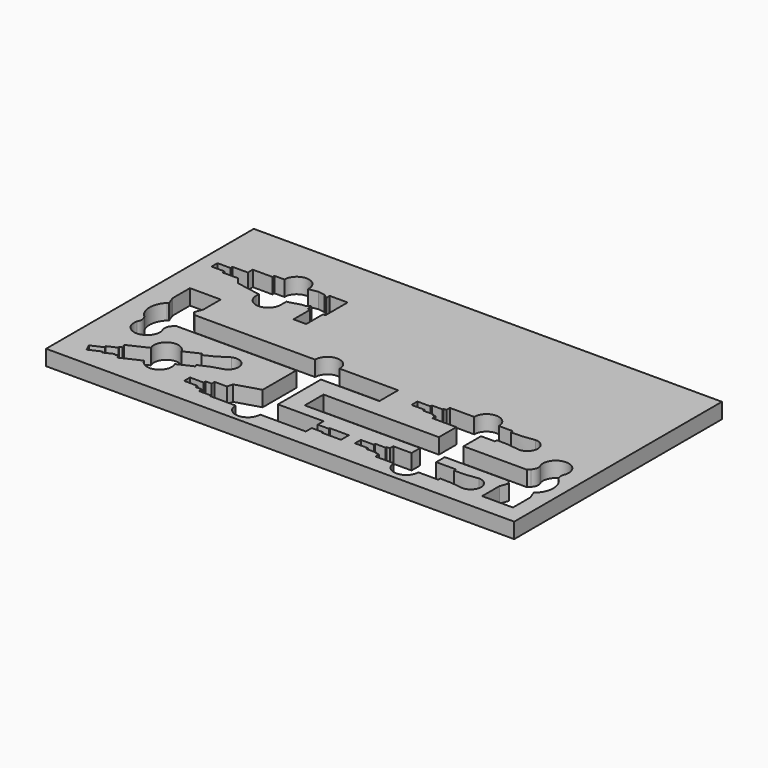
from build123d import *

# Parameters (mm, degrees)
F0_W     = 759
F0_H     = 421
F1_DEPTH = 25
F3_DEPTH = 25


with BuildPart() as f1:
    # F0 (on Top) → F1 (new body)
    with BuildSketch(Plane.XY):
        with Locations((379.5, 210.5)):
            Rectangle(F0_W, F0_H)
        with BuildLine():
            Line((41.574106, 29.987679), (39.038397, 35.425526))
            Line((39.038397, 35.425526), (36.502687, 40.863373))
            Line((36.502687, 40.863373), (55.535151, 49.738356))
            Line((55.535151, 49.738356), (54.267296, 52.457279))
            Line((54.267296, 52.457279), (69.674528, 59.64179))
            Line((69.674528, 59.64179), (68.829292, 61.454405))
            Line((68.829292, 61.454405), (73.360831, 63.567497))
            Line((73.360831, 63.567497), (70.402503, 69.911651))
            Line((70.402503, 69.911651), (162.845897, 113.018714))
            Line((162.845897, 113.018714), (164.53637, 109.393483))
            add(Edge.make_bspline(
                [(164.53637, 109.393483), (186.02897, 118.759774), (189.360402, 123.697673), (197.708211, 128.1719)],
                knots=[0, 0, 0, 0, 38.118237, 38.118237, 38.118237, 38.118237], degree=3))
            ThreePointArc((197.708211, 128.1719), (220.299954, 119.949178), (212.077232, 97.357435))
            add(Edge.make_bspline(
                [(176.369682, 84.016865), (197.359854, 94.460615), (203.283907, 93.83862), (212.077232, 97.357435)],
                knots=[0, 0, 0, 0, 38.118237, 38.118237, 38.118237, 38.118237], degree=3))
            Line((176.369682, 84.016865), (178.060155, 80.391634))
            Line((178.060155, 80.391634), (85.61676, 37.284571))
            Line((85.61676, 37.284571), (82.658433, 43.628725))
            Line((82.658433, 43.628725), (78.126894, 41.515634))
            Line((78.126894, 41.515634), (77.281657, 43.32825))
            Line((77.281657, 43.32825), (61.874425, 36.143739))
            Line((61.874425, 36.143739), (60.60657, 38.862663))
            Line((60.60657, 38.862663), (41.574106, 29.987679))
        make_face(mode=Mode.SUBTRACT)
        Polygon((191.509393, 40.288926), (191.509393, 46.288926), (191.509393, 52.288926), (213.509393, 52.288926), (213.509393, 56.288926), (223.509393, 56.288926), (223.509393, 62.288926), (243.509393, 62.288926), (245.925241, 71.600876), (300.509393, 88.288926), (324.509393, 88.288926), (324.509393, 64.288926), (398.509393, 64.288926), (398.509393, 52.288926), (416.509393, 52.288926), (416.509393, 54.288926), (447.509393, 54.288926), (447.509393, 46.288926), (447.509393, 38.288926), (416.509393, 38.288926), (416.509393, 40.288926), (398.509393, 40.288926), (398.509393, 28.288926), (243.509393, 28.288926), (243.509393, 30.288926), (223.509393, 30.288926), (223.509393, 36.288926), (213.509393, 36.288926), (213.509393, 40.288926), align=None, mode=Mode.SUBTRACT)
        with BuildLine():
            Line((89.169813, 189.501551), (419.169813, 189.501551))
            Line((419.169813, 189.501551), (419.169813, 151.501551))
            Line((419.169813, 151.501551), (89.169813, 151.501551))
            ThreePointArc((89.169813, 151.501551), (87.502912, 149.428753), (85.669622, 147.501551))
            ThreePointArc((85.669622, 147.501551), (81.878586, 139.313731), (83.817105, 130.501551))
            ThreePointArc((83.817105, 130.501551), (63.421027, 104.501551), (43.024949, 130.501551))
            ThreePointArc((43.024949, 130.501551), (44.963468, 139.313731), (41.172432, 147.501551))
            ThreePointArc((41.172432, 147.501551), (31.421027, 170.501551), (41.172432, 193.501551))
            ThreePointArc((41.172432, 193.501551), (42.17639, 194.43198), (43.219221, 195.318622))
            Line((43.219221, 195.318622), (38.421027, 208.501551))
            Line((38.421027, 208.501551), (38.421027, 243.501551))
            Line((38.421027, 243.501551), (88.421027, 243.501551))
            Line((88.421027, 243.501551), (88.421027, 208.501551))
            Line((88.421027, 208.501551), (83.622833, 195.318622))
            ThreePointArc((83.622833, 195.318622), (86.579693, 192.584943), (89.169813, 189.501551))
        make_face(mode=Mode.SUBTRACT)
        with BuildLine():
            Line((467.266707, 41.794581), (467.266707, 47.794581))
            Line((467.266707, 47.794581), (467.266707, 53.794581))
            Line((467.266707, 53.794581), (488.266707, 53.794581))
            Line((488.266707, 53.794581), (488.266707, 56.794581))
            Line((488.266707, 56.794581), (505.266707, 56.794581))
            Line((505.266707, 56.794581), (505.266707, 58.794581))
            Line((505.266707, 58.794581), (510.266707, 58.794581))
            Line((510.266707, 58.794581), (510.266707, 65.794581))
            Line((510.266707, 65.794581), (612.266707, 65.794581))
            Line((612.266707, 65.794581), (612.266707, 61.794581))
            add(Edge.make_bspline(
                [(612.266707, 61.794581), (635.703983, 61.200159), (640.810132, 64.267491), (650.266707, 64.794581)],
                knots=[0, 0, 0, 0, 38.118237, 38.118237, 38.118237, 38.118237], degree=3))
            ThreePointArc((650.266707, 64.794581), (667.266707, 47.794581), (650.266707, 30.794581))
            add(Edge.make_bspline(
                [(612.266707, 33.794581), (635.703983, 34.389004), (640.810132, 31.321672), (650.266707, 30.794581)],
                knots=[0, 0, 0, 0, 38.118237, 38.118237, 38.118237, 38.118237], degree=3))
            Line((612.266707, 33.794581), (612.266707, 29.794581))
            Line((612.266707, 29.794581), (510.266707, 29.794581))
            Line((510.266707, 29.794581), (510.266707, 36.794581))
            Line((510.266707, 36.794581), (505.266707, 36.794581))
            Line((505.266707, 36.794581), (505.266707, 38.794581))
            Line((505.266707, 38.794581), (488.266707, 38.794581))
            Line((488.266707, 38.794581), (488.266707, 41.794581))
            Line((488.266707, 41.794581), (467.266707, 41.794581))
        make_face(mode=Mode.SUBTRACT)
        with BuildLine():
            Line((682.767974, 83.318914), (352.767974, 83.318914))
            Line((352.767974, 83.318914), (352.767974, 121.318914))
            Line((352.767974, 121.318914), (682.767974, 121.318914))
            ThreePointArc((682.767974, 121.318914), (684.434876, 123.391712), (686.268165, 125.318914))
            ThreePointArc((686.268165, 125.318914), (690.059202, 133.506735), (688.120682, 142.318914))
            ThreePointArc((688.120682, 142.318914), (708.516761, 168.318914), (728.912839, 142.318914))
            ThreePointArc((728.912839, 142.318914), (726.974319, 133.506735), (730.765356, 125.318914))
            ThreePointArc((730.765356, 125.318914), (740.516761, 102.318914), (730.765356, 79.318914))
            ThreePointArc((730.765356, 79.318914), (729.761397, 78.388485), (728.718567, 77.501843))
            Line((728.718567, 77.501843), (733.516761, 64.318914))
            Line((733.516761, 64.318914), (733.516761, 29.318914))
            Line((733.516761, 29.318914), (683.516761, 29.318914))
            Line((683.516761, 29.318914), (683.516761, 64.318914))
            Line((683.516761, 64.318914), (688.314954, 77.501843))
            ThreePointArc((688.314954, 77.501843), (685.358094, 80.235523), (682.767974, 83.318914))
        make_face(mode=Mode.SUBTRACT)
        with BuildLine():
            Line((457.506399, 168.704841), (457.506399, 174.704841))
            Line((457.506399, 174.704841), (457.506399, 180.704841))
            Line((457.506399, 180.704841), (478.506399, 180.704841))
            Line((478.506399, 180.704841), (478.506399, 183.704841))
            Line((478.506399, 183.704841), (495.506399, 183.704841))
            Line((495.506399, 183.704841), (495.506399, 185.704841))
            Line((495.506399, 185.704841), (500.506399, 185.704841))
            Line((500.506399, 185.704841), (500.506399, 192.704841))
            Line((500.506399, 192.704841), (602.506399, 192.704841))
            Line((602.506399, 192.704841), (602.506399, 188.704841))
            add(Edge.make_bspline(
                [(602.506399, 188.704841), (625.943676, 188.110419), (631.049824, 191.177751), (640.506399, 191.704841)],
                knots=[0, 0, 0, 0, 38.118237, 38.118237, 38.118237, 38.118237], degree=3))
            ThreePointArc((640.506399, 191.704841), (657.506399, 174.704841), (640.506399, 157.704841))
            add(Edge.make_bspline(
                [(602.506399, 160.704841), (625.943676, 161.299264), (631.049824, 158.231932), (640.506399, 157.704841)],
                knots=[0, 0, 0, 0, 38.118237, 38.118237, 38.118237, 38.118237], degree=3))
            Line((602.506399, 160.704841), (602.506399, 156.704841))
            Line((602.506399, 156.704841), (500.506399, 156.704841))
            Line((500.506399, 156.704841), (500.506399, 163.704841))
            Line((500.506399, 163.704841), (495.506399, 163.704841))
            Line((495.506399, 163.704841), (495.506399, 165.704841))
            Line((495.506399, 165.704841), (478.506399, 165.704841))
            Line((478.506399, 165.704841), (478.506399, 168.704841))
            Line((478.506399, 168.704841), (457.506399, 168.704841))
        make_face(mode=Mode.SUBTRACT)
        with BuildLine():
            Line((22.89143, 306.7806), (22.89143, 312.7806))
            Line((22.89143, 312.7806), (22.89143, 318.7806))
            Line((22.89143, 318.7806), (43.89143, 318.7806))
            Line((43.89143, 318.7806), (43.89143, 322.7806))
            Line((43.89143, 322.7806), (68.89143, 322.7806))
            Line((68.89143, 322.7806), (68.89143, 332.7806))
            Line((68.89143, 332.7806), (100.89143, 332.7806))
            Line((100.89143, 332.7806), (100.89143, 336.7806))
            Line((100.89143, 336.7806), (124.89143, 336.7806))
            Line((124.89143, 336.7806), (124.89143, 332.7806))
            Line((124.89143, 332.7806), (146.89143, 332.7806))
            Line((146.89143, 332.7806), (171.715281, 337.534668))
            ThreePointArc((171.715281, 337.534668), (171.891618, 337.552447), (172.068324, 337.538819))
            Line((172.068324, 337.538819), (182.655824, 335.768171))
            ThreePointArc((182.655824, 335.768171), (182.880469, 335.702856), (183.083791, 335.587134))
            Line((183.083791, 335.587134), (188.298515, 331.747534))
            ThreePointArc((188.298515, 331.747534), (189.342587, 331.660354), (189.89143, 332.552799))
            Line((189.89143, 332.552799), (189.89143, 336.568402))
            ThreePointArc((189.89143, 336.568402), (190.184324, 337.275509), (190.89143, 337.568402))
            Line((190.89143, 337.568402), (217.89143, 337.568402))
            ThreePointArc((217.89143, 337.568402), (218.598537, 337.275509), (218.89143, 336.568402))
            Line((218.89143, 336.568402), (218.89143, 293.568402))
            ThreePointArc((218.89143, 293.568402), (218.598537, 292.861295), (217.89143, 292.568402))
            Line((217.89143, 292.568402), (214.89143, 292.568402))
            Line((214.89143, 292.568402), (214.89143, 258.568402))
            Line((214.89143, 258.568402), (204.570513, 258.568402))
            Line((204.570513, 258.568402), (194.249595, 258.568402))
            Line((194.249595, 258.568402), (194.249595, 292.568402))
            Line((194.249595, 292.568402), (191.249595, 292.568402))
            ThreePointArc((191.249595, 292.568402), (190.542488, 292.861295), (190.249595, 293.568402))
            Line((190.249595, 293.568402), (190.249595, 299.625914))
            ThreePointArc((190.249595, 299.625914), (189.794508, 300.464406), (188.843456, 300.539726))
            Line((188.843456, 300.539726), (185.447085, 299.030226))
            Line((185.447085, 299.030226), (182.1873, 296.695699))
            Line((182.1873, 296.695699), (177.306008, 296.695699))
            Line((177.306008, 296.695699), (163.97365, 292.456207))
            ThreePointArc((163.97365, 292.456207), (158.58694, 291.344635), (153.086813, 291.373529))
            ThreePointArc((153.086813, 291.373529), (152.167101, 290.965545), (152.067674, 289.964329))
            Line((152.067674, 289.964329), (156.276329, 280.742977))
            ThreePointArc((156.276329, 280.742977), (156.207791, 279.787035), (155.3666, 279.327774))
            Line((155.3666, 279.327774), (144.689574, 279.327774))
            ThreePointArc((144.689574, 279.327774), (143.914799, 278.960011), (143.709891, 278.127221))
            ThreePointArc((143.709891, 278.127221), (138.003244, 272.668544), (135.557074, 280.177155))
            ThreePointArc((135.557074, 280.177155), (135.728062, 281.160299), (134.963679, 281.801804))
            Line((134.963679, 281.801804), (77.752069, 291.966183))
            ThreePointArc((77.752069, 291.966183), (77.413599, 292.092612), (77.14215, 292.33107))
            Line((77.14215, 292.33107), (69.191711, 302.400294))
            ThreePointArc((69.191711, 302.400294), (68.842933, 302.680515), (68.406868, 302.7806))
            Line((68.406868, 302.7806), (43.89143, 302.7806))
            Line((43.89143, 302.7806), (43.89143, 306.7806))
            Line((43.89143, 306.7806), (22.89143, 306.7806))
        make_face(mode=Mode.SUBTRACT)
    extrude(amount=F1_DEPTH)

    # F2 (on Top) → F3 (cut)
    with BuildSketch(Plane.XY):
        with BuildLine():
            ThreePointArc((579.86758, 192.825273), (559.86758, 212.825273), (539.86758, 192.825273))
            Line((539.86758, 192.825273), (539.86758, 30.116457))
            ThreePointArc((539.86758, 30.116457), (559.86758, 10.116457), (579.86758, 30.116457))
            Line((579.86758, 30.116457), (579.86758, 192.825273))
        make_face()
        with BuildLine():
            ThreePointArc((138.369839, 101.60534), (111.791318, 111.279131), (102.117527, 84.70061))
            Line((102.117527, 84.70061), (117.331785, 52.07353))
            ThreePointArc((117.331785, 52.07353), (143.910306, 42.399739), (153.584096, 68.97826))
            Line((153.584096, 68.97826), (138.369839, 101.60534))
        make_face()
        with BuildLine():
            ThreePointArc((324.509393, 189.501551), (304.509393, 209.501551), (284.509393, 189.501551))
            Line((284.509393, 189.501551), (284.509393, 28.288926))
            ThreePointArc((284.509393, 28.288926), (304.509393, 8.288926), (324.509393, 28.288926))
            Line((324.509393, 28.288926), (324.509393, 189.501551))
        make_face()
        with BuildLine():
            ThreePointArc((156.922232, 336.7806), (136.922232, 356.7806), (116.922232, 336.7806))
            Line((116.922232, 336.7806), (116.922232, 279.327774))
            ThreePointArc((116.922232, 279.327774), (136.922232, 259.327774), (156.922232, 279.327774))
            Line((156.922232, 279.327774), (156.922232, 336.7806))
        make_face()
    extrude(amount=F3_DEPTH, mode=Mode.SUBTRACT)


solid = f1.part
